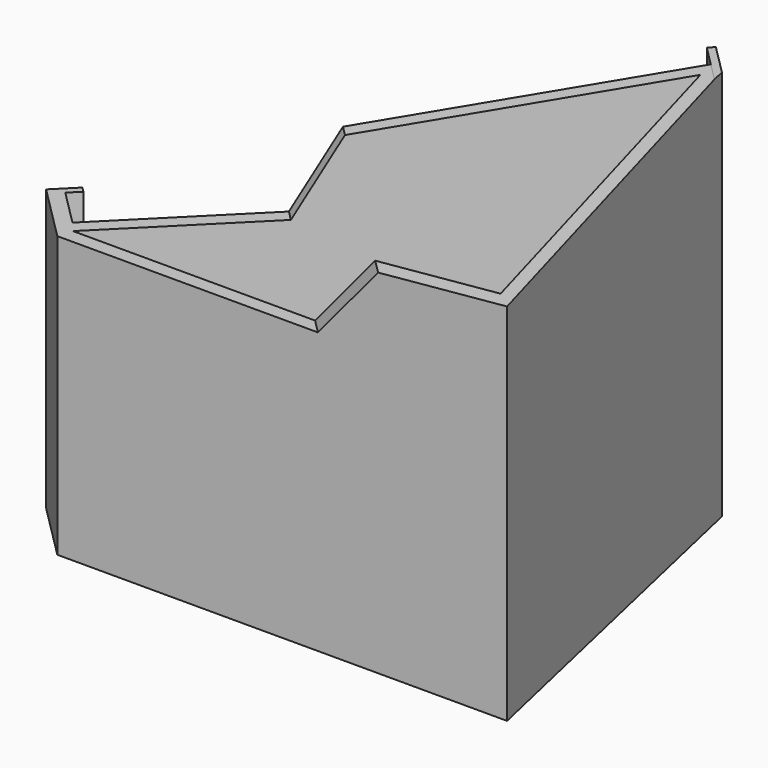
from build123d import *

# Parameters (mm, degrees)
PAD_DEPTH    = 92
POCKET_DEPTH = 100


with BuildPart() as part:
    # Sketch → Pad (new body)
    with BuildSketch(Plane.XY):
        Polygon((-107.002418, 5.939697), (-23.563818, 89.378297), (-28.315576, 94.130055), (-27.127636, 95.317994), (-20, 88.190358), (0, 0), (-105.814479, 0), (-119.051518, 13.237039), (-114.29976, 17.988797), (-113.111821, 16.800857), (-115.4877, 14.424978), align=None)
        Polygon((-22.80842, 85.381938), (-104.830358, 3.36), (-4.207307, 3.36), align=None, mode=Mode.SUBTRACT)
    extrude(amount=PAD_DEPTH)

    # Sketch001 (on Face1 of Pad) → Pocket (cut, symmetric)
    with BuildSketch(Plane(origin=(-56.471058, 56.471058, 0), x_dir=(-0.707107, -0.707107, 0), z_dir=(-0.707107, 0.707107, 0))):
        Polygon((85.037769, 66), (31.462136, 66), (21.462136, 83), (-46.537864, 92), (-46.537864, 107.253265), (85.037769, 107.253265), align=None)
    extrude(amount=POCKET_DEPTH, both=True, mode=Mode.SUBTRACT)


solid = part.part
